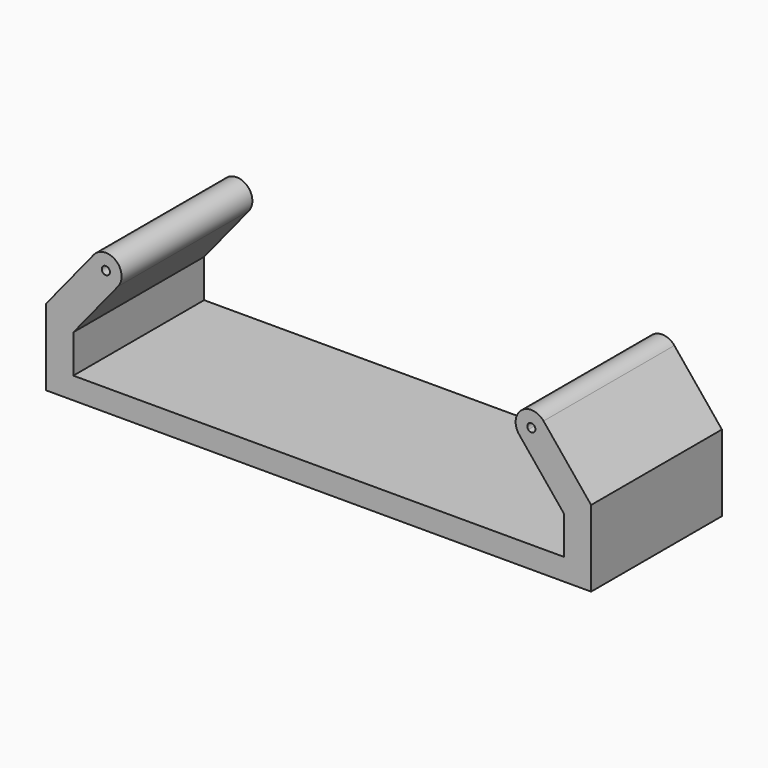
from build123d import *

# Parameters (mm, degrees)
F1_DEPTH = 15


with BuildPart() as f1:
    # F0 (on Front) → F1 (new body, symmetric)
    with BuildSketch(Plane.XZ):
        with BuildLine():
            Line((-38.451876, 20.431713), (-36.795144, 19.083667))
            ThreePointArc((-36.795144, 19.083667), (-37.212223, 23.143551), (-41.272107, 22.726473))
            Line((-41.272107, 22.726473), (-39.615376, 21.378427))
            ThreePointArc((-39.615376, 21.378427), (-38.782441, 21.611757), (-38.283626, 20.90507))
            ThreePointArc((-38.283626, 20.90507), (-38.326939, 20.653885), (-38.451876, 20.431713))
        make_face()
        with BuildLine():
            Line((-50, 2), (-45, 2))
            Line((-45, 2), (-45, 9))
            Line((-45, 9), (-36.795144, 19.083667))
            Line((-36.795144, 19.083667), (-38.451876, 20.431713))
            ThreePointArc((-38.451876, 20.431713), (-39.506983, 20.32332), (-39.615376, 21.378427))
            Line((-39.615376, 21.378427), (-41.272107, 22.726473))
            Line((-41.272107, 22.726473), (-50, 12))
            Line((-50, 12), (-50, 2))
        make_face()
        Polygon((50, -2), (50, 2), (45, 2), (-45, 2), (-50, 2), (-50, -2), align=None)
        with BuildLine():
            Line((45, 2), (50, 2))
            Line((50, 2), (50, 12))
            Line((50, 12), (41.272107, 22.726473))
            Line((41.272107, 22.726473), (39.615376, 21.378427))
            ThreePointArc((39.615376, 21.378427), (39.740312, 21.156254), (39.783626, 20.90507))
            ThreePointArc((39.783626, 20.90507), (39.28481, 20.198383), (38.451876, 20.431713))
            Line((38.451876, 20.431713), (36.795144, 19.083667))
            Line((36.795144, 19.083667), (45, 9))
            Line((45, 9), (45, 2))
        make_face()
        with BuildLine():
            Line((39.615376, 21.378427), (41.272107, 22.726473))
            ThreePointArc((41.272107, 22.726473), (37.212223, 23.143551), (36.795144, 19.083667))
            Line((36.795144, 19.083667), (38.451876, 20.431713))
            ThreePointArc((38.451876, 20.431713), (38.560268, 21.48682), (39.615376, 21.378427))
        make_face()
    extrude(amount=F1_DEPTH, both=True)


solid = f1.part
